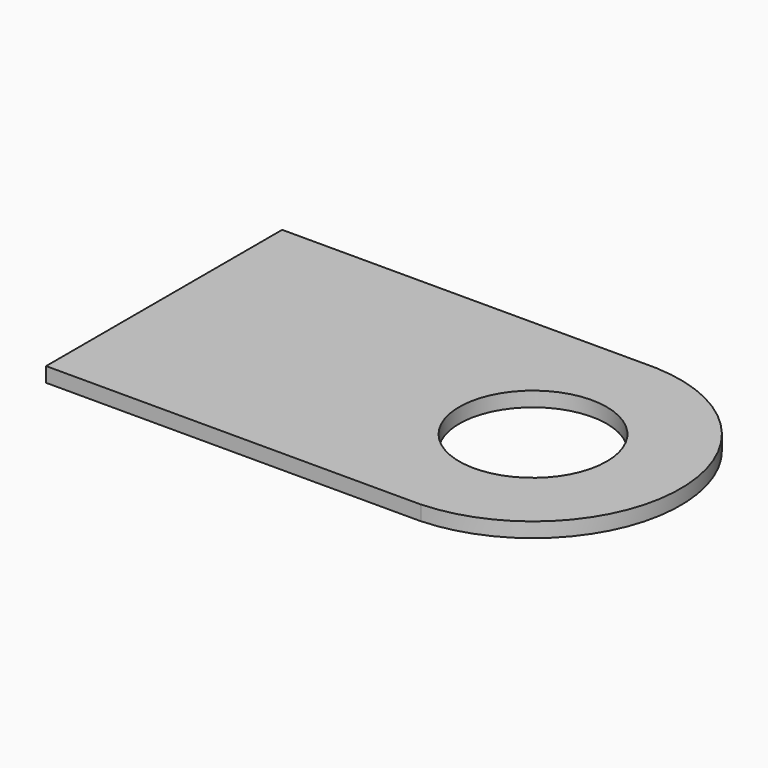
from build123d import *

# Parameters (mm, degrees)
CYLINDER029_R     = 0.5
CYLINDER029_DEPTH = 0.1
BOX012_W          = 2.54
BOX012_H          = 2
BOX012_DEPTH      = 0.1
CYLINDER028_R     = 0.5
CYLINDER028_DEPTH = 0.1
CYLINDER027_R     = 1
CYLINDER027_DEPTH = 0.1


with BuildPart() as cylinder029:
    # Cylinder029 → Cylinder029 (new body)
    with BuildSketch(Plane.XY.offset(1)):
        Circle(CYLINDER029_R)
    extrude(amount=CYLINDER029_DEPTH)


with BuildPart() as cut020:
    # Box012 → Box012 (new body)
    with BuildSketch(Plane(origin=(-2.5, -1, 1), x_dir=(1, 0, 0), z_dir=(0, 0, 1))):
        with Locations((1.27, 1)):
            Rectangle(BOX012_W, BOX012_H)
    extrude(amount=BOX012_DEPTH)

    # Cut020: cut Cylinder029
    add(cylinder029.part, mode=Mode.SUBTRACT)


with BuildPart() as cylinder028:
    # Cylinder028 → Cylinder028 (new body)
    with BuildSketch(Plane.XY.offset(1)):
        Circle(CYLINDER028_R)
    extrude(amount=CYLINDER028_DEPTH)


with BuildPart() as fusion009:
    # Cylinder027 → Cylinder027 (new body)
    with BuildSketch(Plane.XY.offset(1)):
        Circle(CYLINDER027_R)
    extrude(amount=CYLINDER027_DEPTH)

    # Cut019: cut Cylinder028
    add(cylinder028.part, mode=Mode.SUBTRACT)

    # Fusion009: union Cut020
    add(cut020.part)


with BuildPart() as fusion009_1:
    # Fusion009 placement: moved
    add(fusion009.part.moved(Location((0, -22.86, 5.5))))


solid = fusion009_1.part
